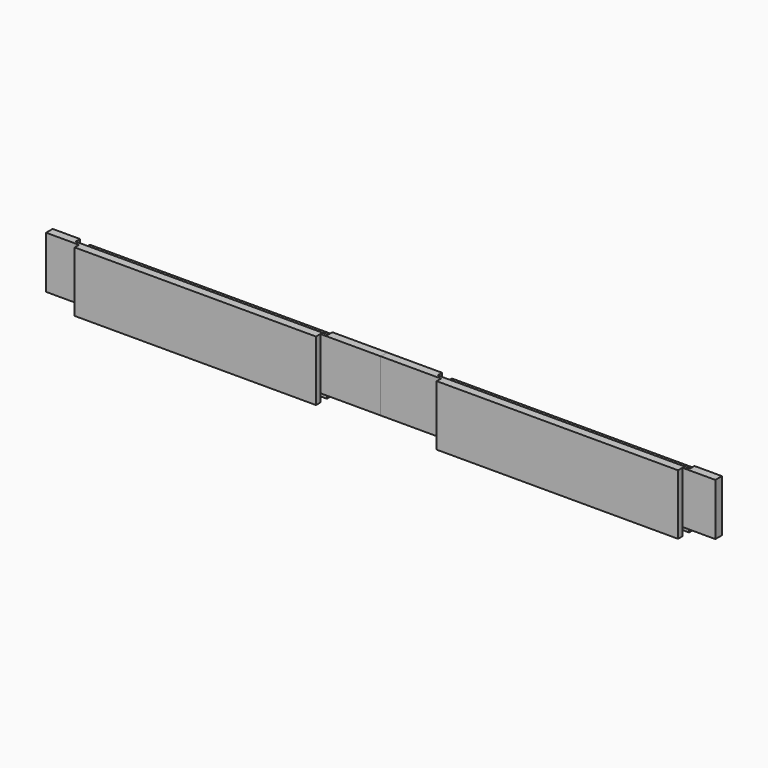
from build123d import *

# Parameters (mm, degrees)
F0_W     = 387.35
F0_H     = 69.85
F1_DEPTH = 22.225
F2_W     = 69.85
F2_H     = 6.35
F2_W_2   = 38.1
F3_DEPTH = 69.85
F2_H_2   = 9.525
F2_W_3   = 279.4
F4_DEPTH = 9.525
F6_DEPTH = 6.35


with BuildPart() as f1:
    # F0 (on Front) → F1 (new body)
    with BuildSketch(Plane.XZ):
        with Locations((193.675, 34.925)):
            Rectangle(F0_W, F0_H)
    extrude(amount=F1_DEPTH)

    # F2 (on face) → F3 (cut, through all)
    with BuildSketch(Plane(origin=(0, 0, 0), x_dir=(1, 0, 0), z_dir=(0, 0, -1))):
        with Locations((34.925, 19.05)):
            Rectangle(F2_W, F2_H)
        with Locations((34.925, 3.175)):
            Rectangle(F2_W, F2_H)
        with Locations((368.3, 19.05)):
            Rectangle(F2_W_2, F2_H)
        with Locations((368.3, 3.175)):
            Rectangle(F2_W_2, F2_H)
    extrude(amount=-F3_DEPTH, mode=Mode.SUBTRACT)

    # F2 (on face) → F4 (cut)
    with BuildSketch(Plane(origin=(0, 0, 0), x_dir=(1, 0, 0), z_dir=(0, 0, -1))):
        with Locations((34.925, 11.1125)):
            Rectangle(F2_W, F2_H_2)
        with Locations((209.55, 11.1125)):
            Rectangle(F2_W_3, F2_H_2)
        with Locations((368.3, 11.1125)):
            Rectangle(F2_W_2, F2_H_2)
    extrude(amount=-F4_DEPTH, mode=Mode.SUBTRACT)

    # F5 (on face) → F6 (cut)
    with BuildSketch(Plane.XY.offset(69.85)):
        Polygon((349.25, 0), (69.85, 0), (69.85, -6.35), (63.5, -6.35), (63.5, -12.7), (355.6, -12.7), (355.6, -6.35), (349.25, -6.35), align=None)
    extrude(amount=-F6_DEPTH, mode=Mode.SUBTRACT)


with BuildPart() as f7_1:
    # F7: instance of F1
    add(f1.part.mirror(Plane.YZ))


solid = Compound([f1.part, f7_1.part])
